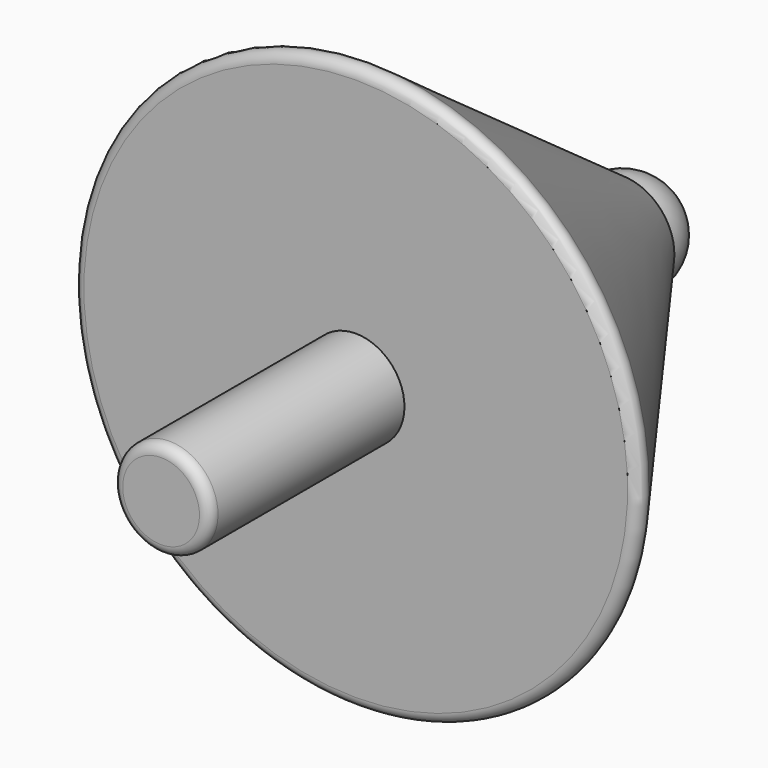
from build123d import *


with BuildPart() as f1:
    # F0 (on Right) → F1 (revolve)
    with BuildSketch(Plane.YZ):
        with BuildLine():
            Line((0, 4.73), (0, 0))
            Line((0, 0), (77.493396, 0))
            ThreePointArc((77.493396, 0), (75.605537, 4.557695), (71.047843, 6.445553))
            Line((71.047843, 6.445553), (32.012067, 34.551312))
            ThreePointArc((32.012067, 34.551312), (30.691003, 34.651001), (30, 33.520663))
            Line((30, 33.520663), (30, 6))
            Line((30, 6), (1.27, 6))
            ThreePointArc((1.27, 6), (0.371974, 5.628026), (0, 4.73))
        make_face()
    revolve(axis=Axis((0, 38.746698, 0), (0, 1, 0)))


solid = f1.part
